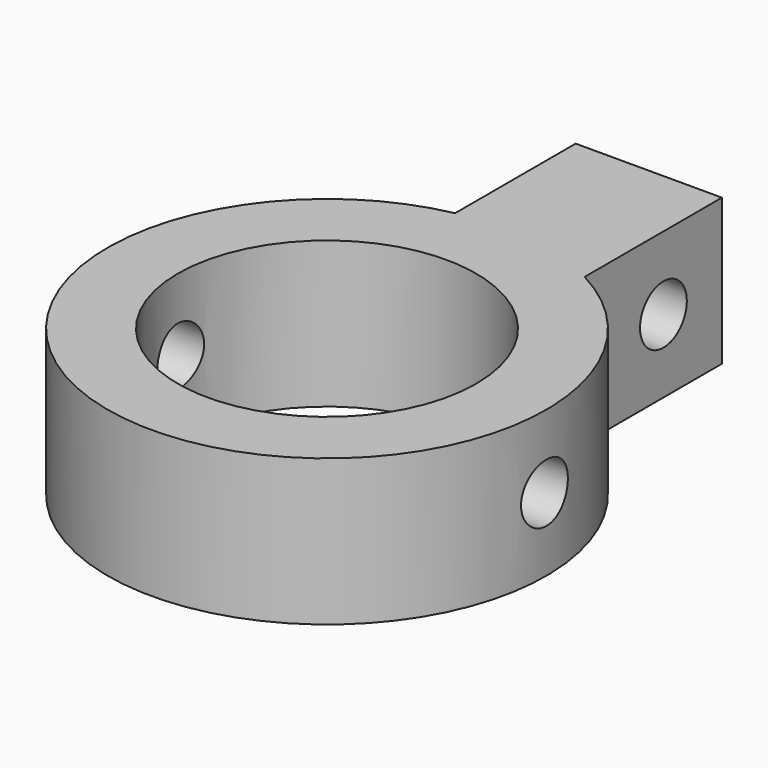
from build123d import *

# Parameters (mm, degrees)
CYLINDER003_R     = 2
CYLINDER003_DEPTH = 10
CYLINDER004_R     = 2
CYLINDER004_DEPTH = 30
CYLINDER001_R     = 10.2
CYLINDER001_DEPTH = 10
BOX_W             = 10
BOX_H             = 15
BOX_DEPTH         = 10
CYLINDER_R        = 15
CYLINDER_DEPTH    = 10


with BuildPart() as cylinder003:
    # Cylinder003 → Cylinder003 (new body)
    with BuildSketch(Plane(origin=(7, 20, 0), x_dir=(0, 0, 1), z_dir=(-1, 0, 0))):
        Circle(CYLINDER003_R)
    extrude(amount=CYLINDER003_DEPTH)


with BuildPart() as cylinder004:
    # Cylinder004 → Cylinder004 (new body)
    with BuildSketch(Plane.ZY.offset(-15)):
        Circle(CYLINDER004_R)
    extrude(amount=CYLINDER004_DEPTH)


with BuildPart() as negative_fusion:
    # Cylinder001 → Cylinder001 (new body)
    with BuildSketch(Plane.XY.offset(-5)):
        Circle(CYLINDER001_R)
    extrude(amount=CYLINDER001_DEPTH)

    # Fusion: union Cylinder003, Cylinder004
    add(cylinder003.part)
    add(cylinder004.part)


with BuildPart() as cube:
    # Box → Box (new body)
    with BuildSketch(Plane(origin=(-3, 10, -5), x_dir=(1, 0, 0), z_dir=(0, 0, 1))):
        with Locations((5, 7.5)):
            Rectangle(BOX_W, BOX_H)
    extrude(amount=BOX_DEPTH)


with BuildPart() as cut:
    # Cylinder → Cylinder (new body)
    with BuildSketch(Plane.XY.offset(-5)):
        Circle(CYLINDER_R)
    extrude(amount=CYLINDER_DEPTH)

    # Fusion001: union Cube
    add(cube.part)

    # Cut: cut Negative Fusion
    add(negative_fusion.part, mode=Mode.SUBTRACT)


solid = cut.part
